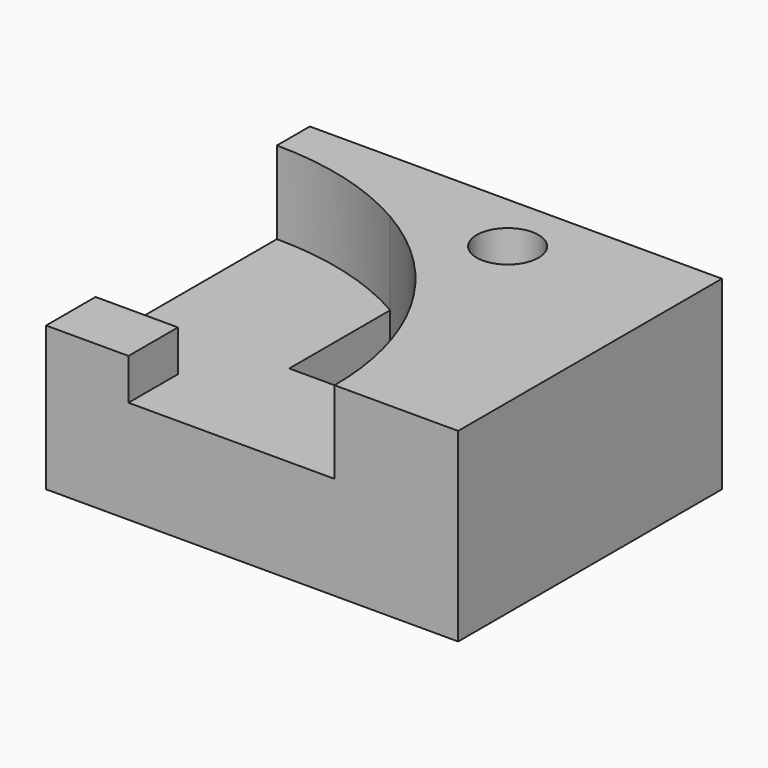
from build123d import *

# Parameters (mm, degrees)
F0_W     = 100
F0_H     = 45
F1_DEPTH = 80
F3_DEPTH = 30
F5_DEPTH = 45.001
F6_DEPTH = 20
F4_W     = 20
F4_H     = 15
F7_DEPTH = 10


with BuildPart() as f1:
    # F0 (on Front) → F1 (new body)
    with BuildSketch(Plane.XZ):
        with Locations((-50, 22.5)):
            Rectangle(F0_W, F0_H)
    extrude(amount=F1_DEPTH)

    # F2 (on face) → F3 (cut)
    with BuildSketch(Plane.XY.offset(45)):
        with BuildLine():
            ThreePointArc((-32.5, -15), (-34.6966991411, -9.6966991411), (-40, -7.5))
            ThreePointArc((-40, -7.5), (-45.3033008589, -20.3033008589), (-32.5, -15))
        make_face()
    extrude(amount=-F3_DEPTH, mode=Mode.SUBTRACT)

    # F4 (on face) → F5 (cut, through all)
    with BuildSketch(Plane.XY.offset(45)):
        with BuildLine():
            Line((-57.3655851185, -50), (-36.7544467966, -50))
            ThreePointArc((-36.7544467966, -50), (-48.5464237678, -32.5391793906), (-65, -19.3782217351))
            Line((-65, -19.3782217351), (-65, -49.3667125702))
            Line((-65, -49.3667125702), (-65, -50))
            Line((-65, -50), (-57.3655851185, -50))
        make_face()
    extrude(amount=-F5_DEPTH, mode=Mode.SUBTRACT)

    # F4 (on face) → F6 (cut)
    with BuildSketch(Plane.XY.offset(45)):
        with BuildLine():
            Line((-80, -80), (-30, -80))
            ThreePointArc((-30, -80), (-31.7094855627, -64.6245117839), (-36.7544467966, -50))
            Line((-36.7544467966, -50), (-57.3655851185, -50))
            Line((-57.3655851185, -50), (-65, -50))
            Line((-65, -50), (-65, -49.3667125702))
            Line((-65, -49.3667125702), (-65, -19.3782217351))
            ThreePointArc((-65, -19.3782217351), (-81.8826668428, -12.3851921598), (-100, -10))
            Line((-100, -10), (-100, -65))
            Line((-100, -65), (-80, -65))
            Line((-80, -65), (-80, -80))
        make_face()
    extrude(amount=-F6_DEPTH, mode=Mode.SUBTRACT)

    # F4 (on face) → F7 (cut)
    with BuildSketch(Plane.XY.offset(45)):
        with Locations((-90, -72.5)):
            Rectangle(F4_W, F4_H)
    extrude(amount=-F7_DEPTH, mode=Mode.SUBTRACT)


solid = f1.part
